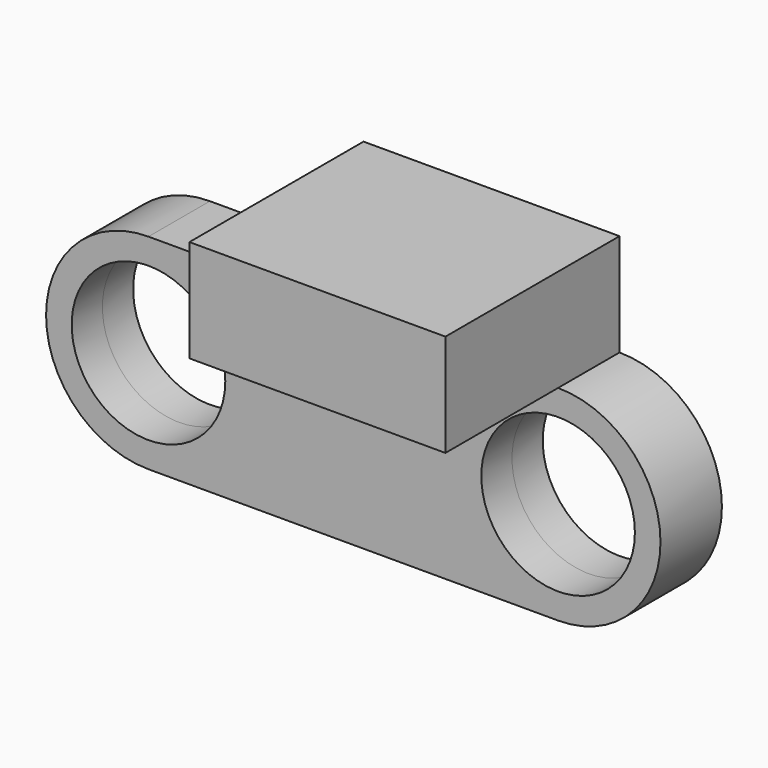
from build123d import *

# Parameters (mm, degrees)
F0_R      = 6
F2_DEPTH  = 3
F3_W      = 20
F3_H      = 8
F4_DEPTH  = 14
F1_R      = 6
F4_FACE_W = 20
F4_FACE_H = 8
F5_DEPTH  = 3


with BuildPart() as f2:
    # F0 (on Front) → F2 (new body)
    with BuildSketch(Plane.XZ):
        with BuildLine():
            ThreePointArc((-12, 0), (-20, -8), (-12, -16))
            Line((-12, -16), (20, -16))
            ThreePointArc((20, -16), (28, -8), (20, 0))
            Line((20, 0), (20, 8))
            Line((20, 8), (0, 8))
            Line((0, 8), (0, 0))
            Line((0, 0), (-12, 0))
        make_face()
        with Locations((-12, -8)):
            Circle(F0_R, mode=Mode.SUBTRACT)
        with Locations((20, -8)):
            Circle(F0_R, mode=Mode.SUBTRACT)
    extrude(amount=F2_DEPTH)

    # F3 (on Front) → F4 (join)
    with BuildSketch(Plane.XZ):
        with Locations((10, 4)):
            Rectangle(F3_W, F3_H)
    extrude(amount=F4_DEPTH)

    # F1 (on Front) + F4_face (on face) → F5 (join)
    with BuildSketch(Plane.XZ):
        with BuildLine():
            Line((0, 8), (0, 0))
            Line((0, 0), (-12, 0))
            ThreePointArc((-12, 0), (-20, -8), (-12, -16))
            Line((-12, -16), (20, -16))
            ThreePointArc((20, -16), (28, -8), (20, 0))
            Line((20, 0), (20, 8))
            Line((20, 8), (0, 8))
        make_face()
        with Locations((-12, -8)):
            Circle(F1_R, mode=Mode.SUBTRACT)
        with Locations((20, -8)):
            Circle(F1_R, mode=Mode.SUBTRACT)
    with BuildSketch(Plane(origin=(10, -14, 4), x_dir=(1, 0, 0), z_dir=(0, -1, 0))):
        Rectangle(F4_FACE_W, F4_FACE_H)
    extrude(amount=-F5_DEPTH)


solid = f2.part
